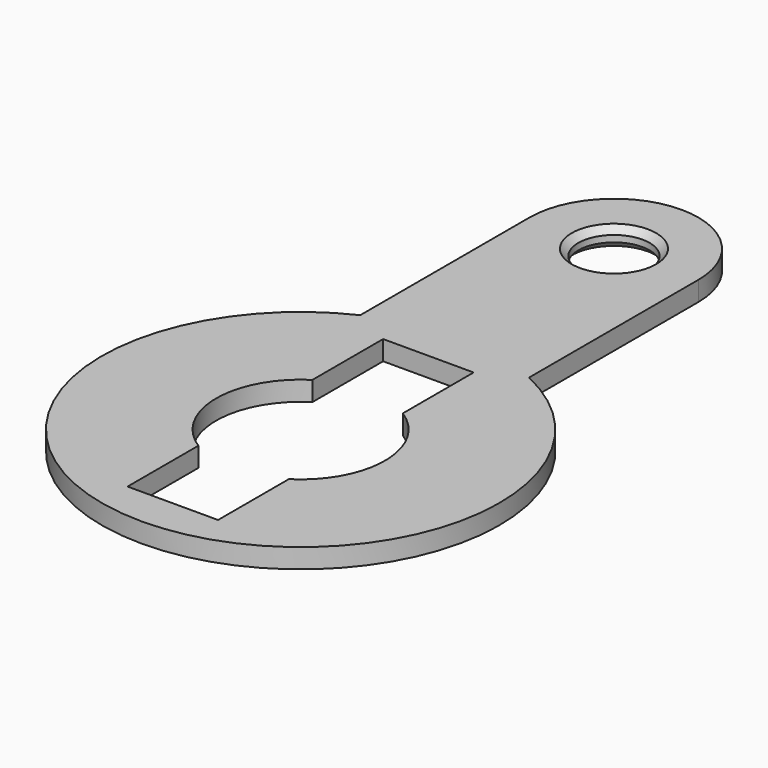
from build123d import *

# Parameters (mm, degrees)
EXTRUDE008_DEPTH = 2


with BuildPart() as obj1:
    # Sketch011 → Revolve (revolve)
    with BuildSketch(Plane.YZ):
        Polygon((43.6433333333, 6.6666666667), (43.6433333333, 7.3333333333), (44.31, 8), (44.31, 14), (40, 14), (40, 6), (44.31, 6), align=None)
    revolve(axis=Axis((0, 40, 6), (0, 0, -1)))


with BuildPart() as obj2:
    # Sketch009 (on Face8 of Extrude003) → Extrude008 (new body)
    with BuildSketch(Plane.XY.offset(6)):
        with BuildLine():
            Line((-8.62, 40), (-8.62, 18.3899891245))
            ThreePointArc((-8.62, 18.3899891245), (0, -20.31), (8.62, 18.3899891245))
            Line((8.62, 40), (8.62, 18.3899891245))
            ThreePointArc((8.62, 40), (0, 48.62), (-8.62, 40))
        make_face()
        with BuildLine():
            Line((-4.62, 16.31), (4.62, 16.31))
            Line((4.62, 7.2773621595), (4.62, 16.31))
            ThreePointArc((4.62, -7.2773621595), (8.62, 0), (4.62, 7.2773621595))
            Line((4.62, -7.2773621595), (4.62, -16.31))
            Line((4.62, -16.31), (-4.62, -16.31))
            Line((-4.62, -7.2773621595), (-4.62, -16.31))
            ThreePointArc((-4.62, 7.2773621595), (-8.62, 0), (-4.62, -7.2773621595))
            Line((-4.62, 16.31), (-4.62, 7.2773621595))
        make_face(mode=Mode.SUBTRACT)
    extrude(amount=EXTRUDE008_DEPTH)

    # Cut002: cut obj1
    add(obj1.part, mode=Mode.SUBTRACT)


solid = obj2.part
